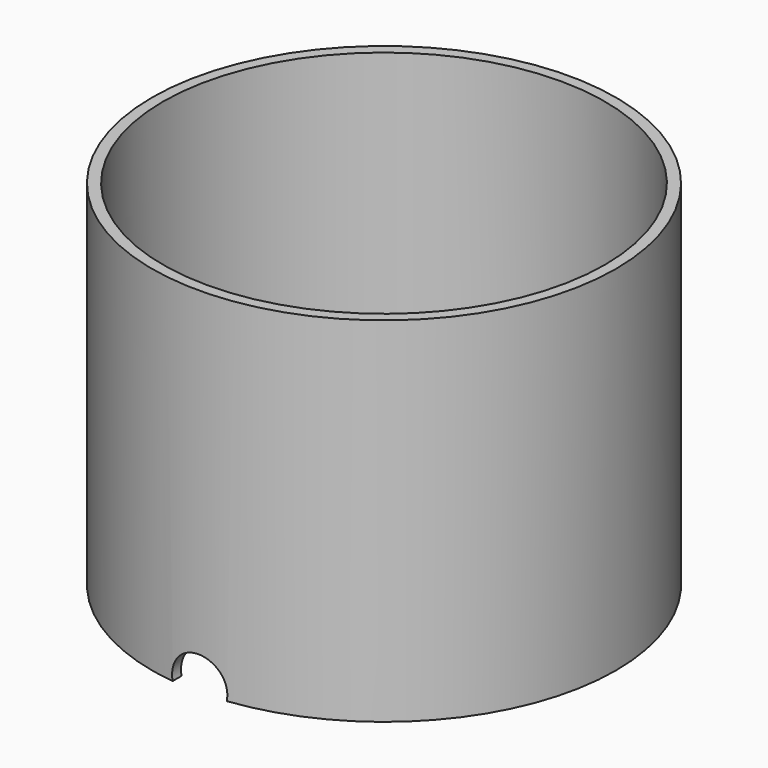
from build123d import *

# Parameters (mm, degrees)
CYLINDER039_R          = 2.25
CYLINDER039_DEPTH      = 30
ARRAY002_COUNT         = 8
CYLINDER038_R          = 1.55
CYLINDER038_DEPTH      = 30
CYLINDER045_R          = 1.25
CYLINDER045_DEPTH      = 32
CYLINDER045_ROLL_ANGLE = 90
CYLINDER043_R          = 3.5
CYLINDER043_DEPTH      = 5.5
CYLINDER042_R          = 10
CYLINDER042_DEPTH      = 16
CYLINDER037_R          = 10
CYLINDER037_DEPTH      = 16
CYLINDER036_R          = 10.5
CYLINDER036_DEPTH      = 16
CYLINDER044_R          = 2
CYLINDER044_DEPTH      = 5.5
CHAMFER062_1_SIZE      = 0.3
CHAMFER062_2_SIZE      = 0.2
CHAMFER062_3_SIZE      = 0.1


with BuildPart() as array002:
    # Cylinder039 → Cylinder039 (new body)
    with BuildSketch(Plane(origin=(7, 0, -10), x_dir=(1, 0, 0), z_dir=(0, 0, 1))):
        Circle(CYLINDER039_R)
    extrude(amount=CYLINDER039_DEPTH)

    # Array002: Array002 ×8 about axis
    array002_axis = Axis((0, 0, 0), (0, 0, 1))


with BuildPart() as array002_1:
    add(array002.part)
    for i in range(1, ARRAY002_COUNT):
        add(array002.part.rotate(array002_axis, i * 360 / ARRAY002_COUNT))


with BuildPart() as fusion033:
    # Cylinder038 → Cylinder038 (new body)
    with BuildSketch(Plane.XY.offset(-10)):
        Circle(CYLINDER038_R)
    extrude(amount=CYLINDER038_DEPTH)

    # Fusion033: union Array002
    add(array002_1.part)


with BuildPart() as cylinder045:
    # Cylinder045 → Cylinder045 (new body)
    with BuildSketch(Plane.XY):
        Circle(CYLINDER045_R)
    extrude(amount=CYLINDER045_DEPTH)


with BuildPart() as cylinder045_1:
    # Cylinder045 roll: moved
    add(cylinder045.part.rotate(Axis((0, 0, 0), (1, 0, 0)), CYLINDER045_ROLL_ANGLE))


with BuildPart() as cylinder045_2:
    # Cylinder045 placement: moved
    add(cylinder045_1.part.moved(Location((0, 15, 0.25))))


with BuildPart() as cylinder043:
    # Cylinder043 → Cylinder043 (new body)
    with BuildSketch(Plane.XY.offset(-2)):
        Circle(CYLINDER043_R)
    extrude(amount=CYLINDER043_DEPTH)


with BuildPart() as cylinder042:
    # Cylinder042 → Cylinder042 (new body)
    with BuildSketch(Plane.XY.offset(-13)):
        Circle(CYLINDER042_R)
    extrude(amount=CYLINDER042_DEPTH)


with BuildPart() as fusion034:
    # Cylinder037 → Cylinder037 (new body)
    with BuildSketch(Plane.XY.offset(4)):
        Circle(CYLINDER037_R)
    extrude(amount=CYLINDER037_DEPTH)

    # Fusion034: union Cylinder042
    add(cylinder042.part)


with BuildPart() as cut028:
    # Cylinder036 → Cylinder036 (new body)
    with BuildSketch(Plane.XY):
        Circle(CYLINDER036_R)
    extrude(amount=CYLINDER036_DEPTH)

    # Cut028: cut Fusion034
    add(fusion034.part, mode=Mode.SUBTRACT)


with BuildPart() as chamfer062:
    # Cylinder044 → Cylinder044 (new body)
    with BuildSketch(Plane.XY.offset(3.5)):
        Circle(CYLINDER044_R)
    extrude(amount=CYLINDER044_DEPTH)

    # Fusion035: union Cylinder043, Cut028
    add(cylinder043.part)
    add(cut028.part)

    # Cut002: cut Cylinder045
    add(cylinder045_2.part, mode=Mode.SUBTRACT)

    # Cut029: cut Fusion033
    add(fusion033.part, mode=Mode.SUBTRACT)

    # Chamfer062 1
    chamfer062_1_edges = [chamfer062.edges().sort_by_distance(p)[0] for p in [
        (-1.55, 0, -2),
    ]]
    chamfer(chamfer062_1_edges, length=CHAMFER062_1_SIZE)

    # Chamfer062 2
    chamfer062_2_edges = [chamfer062.edges().sort_by_distance(p)[0] for p in [
        (-3.5, 0, -2),
    ]]
    chamfer(chamfer062_2_edges, length=CHAMFER062_2_SIZE)

    # Chamfer062 3
    chamfer062_3_edges = [chamfer062.edges().sort_by_distance(p)[0] for p in [
        (-1.55, 0, 9),
    ]]
    chamfer(chamfer062_3_edges, length=CHAMFER062_3_SIZE)


solid = chamfer062.part
